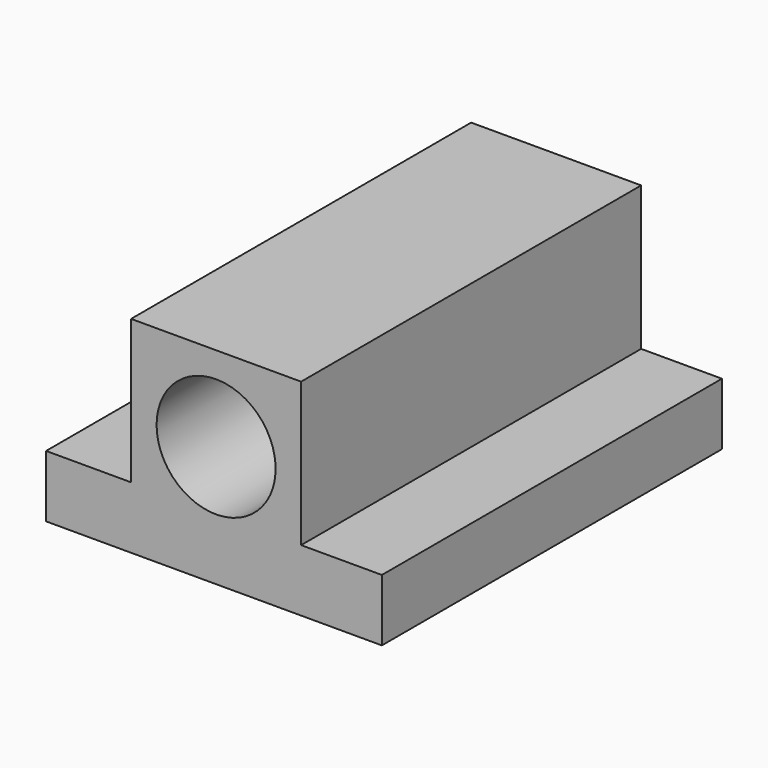
from build123d import *

# Parameters (mm, degrees)
F1_DEPTH = 50
F3_D     = 14


with BuildPart() as f1:
    # F0 (on Front) → F1 (new body)
    with BuildSketch(Plane.XZ):
        Polygon((0, 7.2967982822), (0, 0), (39.5, 0), (39.5, 7.2967982822), (30, 7.2967982822), (30, 24.2253708326), (10, 24.2253708326), (10, 7.2967982822), align=None)
    extrude(amount=F1_DEPTH)

    # F3 (through all)
    with Locations(Plane.XZ.offset(50)):
        with Locations((20, 14.2253708326)):
            Hole(F3_D / 2)


solid = f1.part
